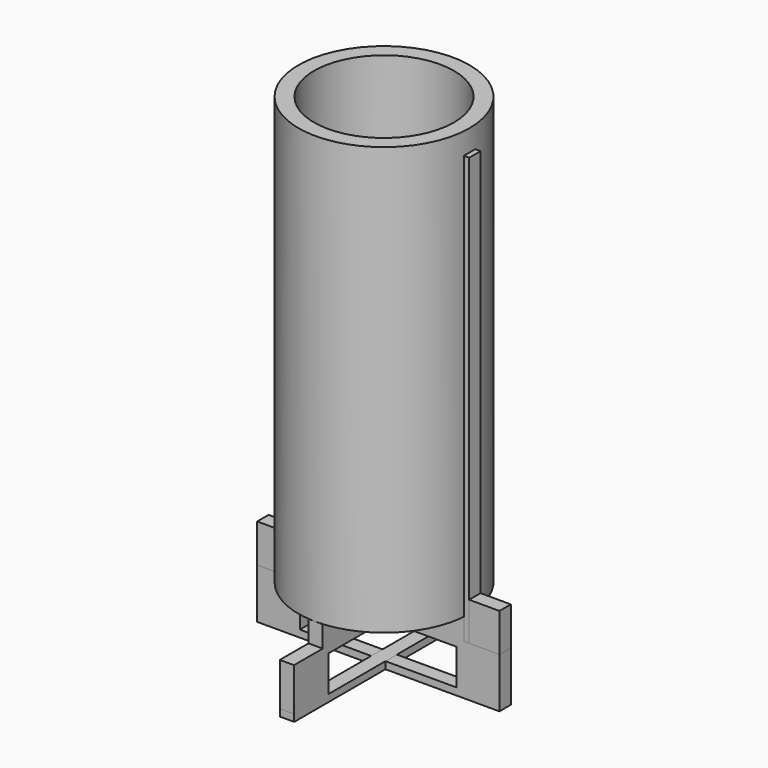
from build123d import *

# Parameters (mm, degrees)
F0_R      = 76.2
F0_R_2    = 62.357
F1_DEPTH  = 381
F2_W      = 38.1
F2_H      = 21.1140662432
F3_DEPTH  = 6.35
F5_W      = 31.75
F5_H      = 34.2086553574
F6_DEPTH  = 12.7
F7_COUNT  = 2
F9_W      = 38.1
F9_H      = 21.1140662432
F10_DEPTH = 6.35
F11_R     = 4.7625
F12_DEPTH = 12.7
F13_R     = 6.6130646677
F13_R_2   = 4.7625
F14_DEPTH = 12.7
F15_R     = 17.8636354215
F16_DEPTH = 38.1
F17_T     = -2.54
F18_W     = 4.7625
F18_H     = 381
F19_DEPTH = 6.35
F20_COUNT = 2


with BuildPart() as f1:
    # F0 (on Top) → F1 (new body)
    with BuildSketch(Plane.XY):
        Circle(F0_R)
        Circle(F0_R_2, mode=Mode.SUBTRACT)
    extrude(amount=F1_DEPTH)


with BuildPart() as f3:
    # F2 (on Front) → F3 (new body, symmetric)
    with BuildSketch(Plane.XZ):
        Polygon((12.7, 0), (0, 0), (0, -25.4), (69.85, -25.4), (69.85, -57.3190115392), (107.95, -57.3190115392), (107.95, -19.05), (76.2, -19.05), (76.2, 0), (50.8, 0), align=None)
        Polygon((0, -25.4), (0, 0), (-12.7, 0), (-50.8, 0), (-76.2, 0), (-76.2, -19.05), (-107.95, -19.05), (-107.95, -57.3190115392), (-69.85, -57.3190115392), (-69.85, -25.4), align=None)
        with Locations((31.75, 10.5570331216)):
            Rectangle(F2_W, F2_H)
        with Locations((-31.75, 10.5570331216)):
            Rectangle(F2_W, F2_H)
        Polygon((107.95, -57.3190115392), (69.85, -57.3190115392), (0, -57.3190115392), (0, -63.6690115392), (107.95, -63.6690115392), align=None)
        Polygon((0, -57.3190115392), (-69.85, -57.3190115392), (-107.95, -57.3190115392), (-107.95, -63.6690115392), (0, -63.6690115392), align=None)
    extrude(amount=F3_DEPTH, both=True)


with BuildPart() as f4_1:
    # F4: copy of F3
    add(f3.part)


with BuildPart() as f6:
    # F5 (on face) → F6 (new body)
    with BuildSketch(Plane.XZ.offset(6.35)):
        with Locations((92.075, -1.9456723213)):
            Rectangle(F5_W, F5_H)
    extrude(amount=-F6_DEPTH)


with BuildPart() as f7_1:
    # F7: instance of F6
    add(f6.part.rotate(Axis((0, 0, -12.7), (0, 0, -1)), 1 * 360 / F7_COUNT))


with BuildPart() as f10:
    # F9 (on offset) → F10 (new body, symmetric)
    with BuildSketch(Plane.YZ):
        Polygon((20.32, 0), (0, 0), (0, -25.4), (69.85, -25.4), (69.85, -57.3190115392), (107.95, -57.3190115392), (108.1552857299, -57.3190115392), (108.1552857299, -19.05), (76.2, -19.05), (76.2, 0), (58.42, 0), align=None)
        Polygon((0, -25.4), (0, 0), (-20.32, 0), (-58.42, 0), (-76.2, 0), (-76.2, -19.05), (-108.1552857299, -19.05), (-108.1552857299, -57.3190115392), (-107.95, -57.3190115392), (-69.85, -57.3190115392), (-69.85, -25.4), align=None)
        with Locations((39.37, 10.5570331216)):
            Rectangle(F9_W, F9_H)
        with Locations((-39.37, 10.5570331216)):
            Rectangle(F9_W, F9_H)
        Polygon((107.95, -57.3190115392), (69.85, -57.3190115392), (5.2724099398, -57.3190115392), (-5.2724099398, -57.3190115392), (-69.85, -57.3190115392), (-107.95, -57.3190115392), (-107.95, -63.6690115392), (-1.0775900602, -63.6690115392), (1.0775900602, -63.6690115392), (107.95, -63.6690115392), align=None)
    extrude(amount=F10_DEPTH, both=True)


with BuildPart() as f12:
    # F11 (on Top) → F12 (new body)
    with BuildSketch(Plane.XY):
        Circle(F11_R)
    extrude(amount=F12_DEPTH)


with BuildPart() as f14:
    # F13 (on face) → F14 (new body)
    with BuildSketch(Plane.XY.offset(12.7)):
        Circle(F13_R)
        Circle(F13_R_2, mode=Mode.SUBTRACT)
    extrude(amount=F14_DEPTH)


with BuildPart() as f16:
    # F15 (on face) → F16 (new body)
    with BuildSketch(Plane.XY.offset(25.4)):
        Circle(F15_R)
    extrude(amount=F16_DEPTH)

    # F17
    f17_openings = [f16.faces().sort_by_distance(p)[0] for p in [
        (0, 0, 63.5),
    ]]
    offset(amount=F17_T, openings=f17_openings)


with BuildPart() as f19:
    # F18 (on Front) → F19 (new body, symmetric)
    with BuildSketch(Plane.XZ):
        with Locations((78.58125, 171.45)):
            Rectangle(F18_W, F18_H)
    extrude(amount=F19_DEPTH, both=True)


with BuildPart() as f20_1:
    # F20: instance of F19
    add(f19.part.rotate(Axis((0, 0, -12.7), (0, 0, -1)), 1 * 360 / F20_COUNT))


solid = Compound([f1.part, f3.part, f4_1.part, f6.part, f7_1.part, f10.part, f12.part, f14.part, f16.part, f19.part, f20_1.part])
